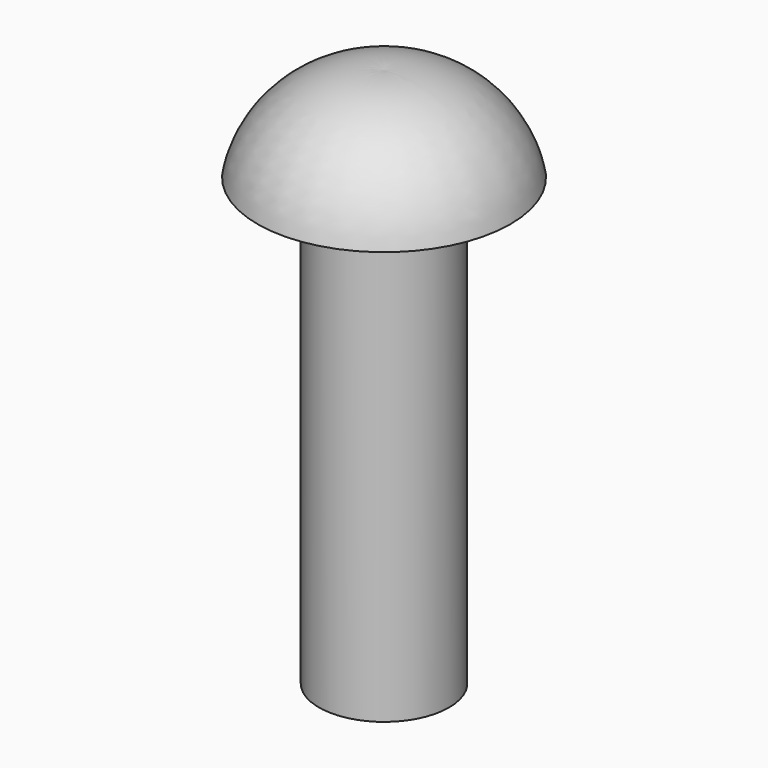
from build123d import *

# Parameters (mm, degrees)
F0_R     = 0.9271
F1_DEPTH = 6.35


with BuildPart() as f1:
    # F0 (on Top) → F1 (new body)
    with BuildSketch(Plane.XY):
        Circle(F0_R)
    extrude(amount=F1_DEPTH)

    # F2 (on Front) → F3 (revolve)
    with BuildSketch(Plane.XZ):
        with BuildLine():
            Line((0, 7.6962), (0, 6.35))
            Line((0, 6.35), (0.9271, 6.35))
            Line((0.9271, 6.35), (1.8034, 6.35))
            ThreePointArc((1.8034, 6.35), (1.160228, 7.369431), (0, 7.6962))
        make_face()
    revolve(axis=Axis((0, 0, 7.0231), (0, 0, 1)))


solid = f1.part
